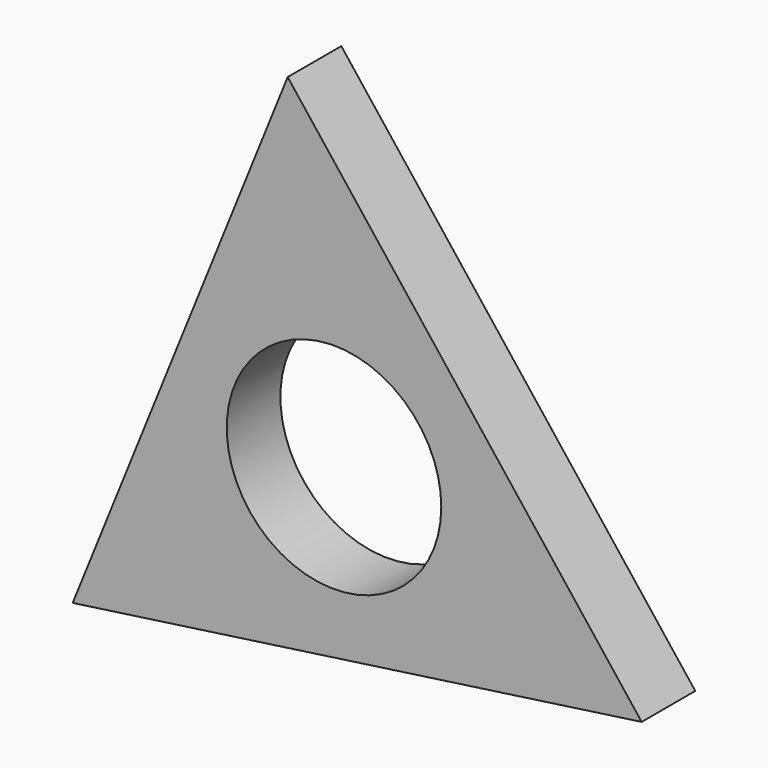
from build123d import *

# Parameters (mm, degrees)
F0_R     = 11.2
F1_DEPTH = 7


with BuildPart() as f1:
    # F0 (on Front) → F1 (new body)
    with BuildSketch(Plane.XZ):
        Polygon((32.125331, -12.960059), (-4.838925, 34.301382), (-27.286405, -21.341323), align=None)
        Circle(F0_R, mode=Mode.SUBTRACT)
    extrude(amount=F1_DEPTH)


solid = f1.part
